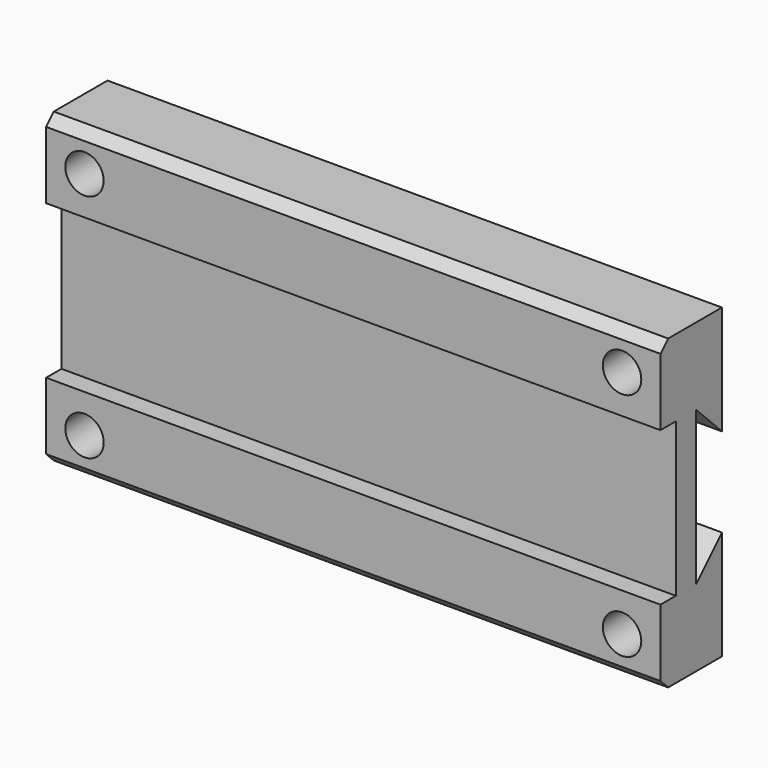
from build123d import *

# Parameters (mm, degrees)
F0_W           = 101.6
F0_H           = 50.8
F1_DEPTH       = 12.7
F3_D           = 3.175
F3_CBORE_D     = 6.35
F3_CBORE_DEPTH = 6.35
F4_W           = 101.6
F4_H           = 25.4
F5_DEPTH       = 3.175
F6_SIZE        = 1.5875
F8_DEPTH       = 101.601


with BuildPart() as f1:
    # F0 (on Front) → F1 (new body)
    with BuildSketch(Plane.XZ):
        with Locations((6.362615, 4.069407)):
            Rectangle(F0_W, F0_H)
    extrude(amount=F1_DEPTH)

    # F3 (through all)
    with Locations(Plane.XZ.offset(12.7)):
        with Locations((-38.087385, -14.980593), (50.812615, -14.980593), (50.812615, 23.119407), (-38.087385, 23.119407)):
            CounterBoreHole(F3_D / 2, F3_CBORE_D / 2, F3_CBORE_DEPTH)

    # F4 (on face) → F5 (cut)
    with BuildSketch(Plane.XZ.offset(12.7)):
        with Locations((6.362615, 4.069407)):
            Rectangle(F4_W, F4_H)
    extrude(amount=-F5_DEPTH, mode=Mode.SUBTRACT)

    # F6
    f6_edges = [f1.edges().sort_by_distance(p)[0] for p in [
        (6.362615, -12.7, 29.469407),
        (6.362615, -12.7, -21.330593),
    ]]
    chamfer(f6_edges, length=F6_SIZE)

    # F7 (on face) → F8 (cut, through all)
    with BuildSketch(Plane.YZ.offset(57.162615)):
        Polygon((-5.34251, 16.769407), (-5.34251, -8.630593), (0, -3.288082), (0, 11.426897), align=None)
    extrude(amount=-F8_DEPTH, mode=Mode.SUBTRACT)


solid = f1.part
